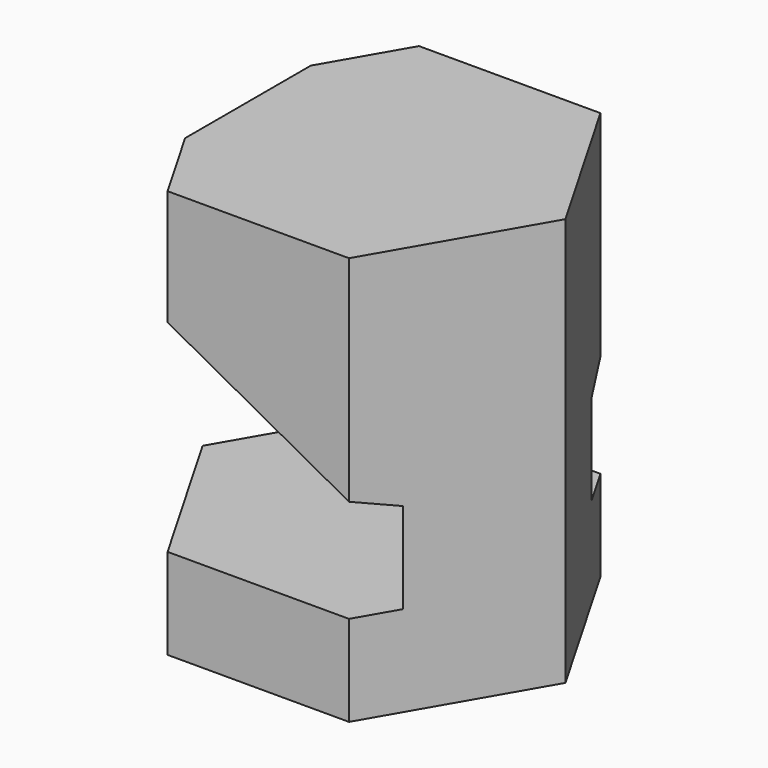
from build123d import *

# Parameters (mm, degrees)
F1_DEPTH      = 90
F3_DEPTH      = 34.6420161514
F3_DEPTH_BACK = 34.6420161514


with BuildPart() as f1:
    # F0 (on Top) → F1 (new body)
    with BuildSketch(Plane.XY):
        Polygon((-20, 34.6410161514), (-40, 0), (-20, -34.6410161514), (20, -34.6410161514), (40, 0), (20, 34.6410161514), align=None)
    extrude(amount=F1_DEPTH)

    # F2 (on Front) → F3 (cut, two sides)
    with BuildSketch(Plane.XZ) as f3_sk:
        Polygon((-43.1388012565, 92.6622778185), (-43.1388012565, 20), (25, 20), (25, 40), (-30, 70), (-30, 92.6622778185), align=None)
    extrude(amount=-F3_DEPTH, mode=Mode.SUBTRACT)
    extrude(f3_sk.sketch, amount=F3_DEPTH_BACK, mode=Mode.SUBTRACT)


solid = f1.part
